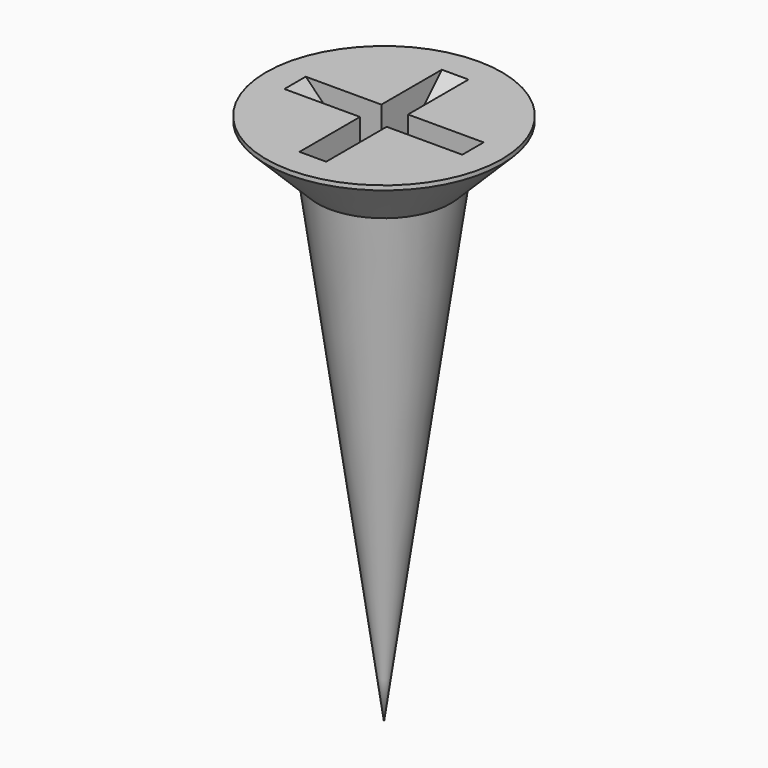
from build123d import *

# Parameters (mm, degrees)
POCKET001_DEPTH    = 0.3
POLARPATTERN_COUNT = 2
POLARPATTERN_ANGLE = 90


with BuildPart() as part:
    # Sketch013 → Revolution (revolve)
    with BuildSketch(Plane.XZ):
        Polygon((0, 0), (0, -12), (1.5, -1.25), (2.65, -0.1), (2.65, 0), align=None)
    revolve(axis=Axis((0, 0, 0), (0, 0, 1)))

    # Sketch014 → Pocket001 (cut, symmetric)
    with BuildSketch(Plane.XZ):
        Polygon((-2, 0), (0, -2), (2, 0), align=None)
    pocket001 = extrude(amount=POCKET001_DEPTH, both=True, mode=Mode.SUBTRACT)

    # PolarPattern: Pocket001 ×2 about axis
    polarpattern_axis = Axis((0, 0, 0), (0, 0, 1))
    for i in range(1, POLARPATTERN_COUNT):
        add(pocket001.rotate(polarpattern_axis, i * POLARPATTERN_ANGLE / (POLARPATTERN_COUNT - 1)), mode=Mode.SUBTRACT)


with BuildPart() as part_1:
    # Body011 placement: moved
    add(part.part.moved(Location((20, 20, 11.5))))


solid = part_1.part
